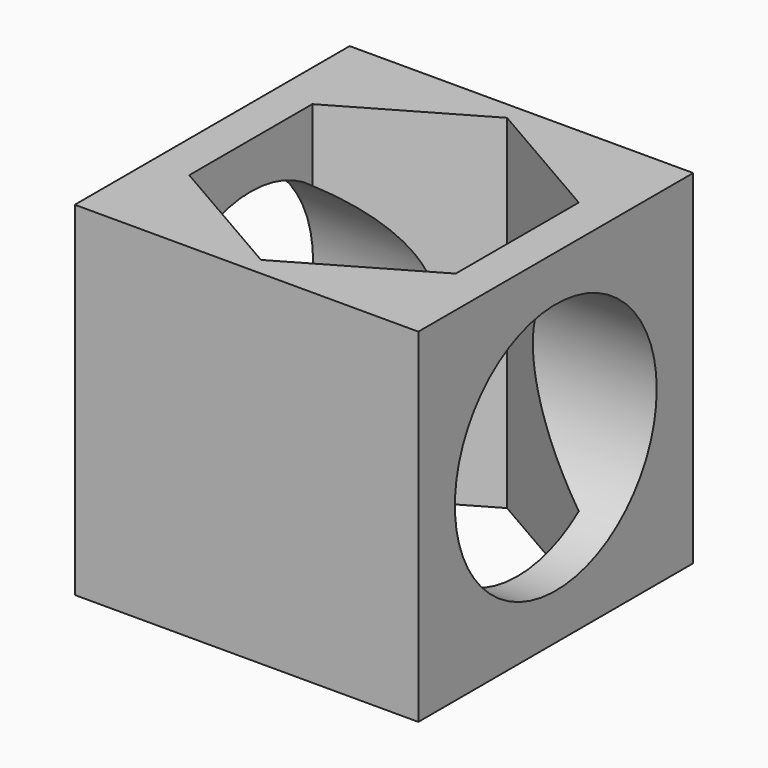
from build123d import *

# Parameters (mm, degrees)
F0_W     = 100
F0_H     = 100
F1_DEPTH = 100
F2_R     = 36.715215
F3_DEPTH = 100
F5_DEPTH = 100.001


with BuildPart() as f1:
    # F0 (on Right) → F1 (new body)
    with BuildSketch(Plane.YZ):
        with Locations((50, 50)):
            Rectangle(F0_W, F0_H)
    extrude(amount=F1_DEPTH)

    # F2 (on face) → F3 (cut, through all)
    with BuildSketch(Plane.YZ.offset(100)):
        with Locations((50, 50)):
            Circle(F2_R)
    extrude(amount=-F3_DEPTH, mode=Mode.SUBTRACT)

    # F4 (on face) → F5 (cut, through all)
    with BuildSketch(Plane.XY.offset(100)):
        Polygon((88.777177, 27.611986), (88.777177, 72.388014), (50, 94.776027), (11.222823, 72.388014), (11.222823, 27.611986), (50, 5.223973), align=None)
    extrude(amount=-F5_DEPTH, mode=Mode.SUBTRACT)


solid = f1.part
